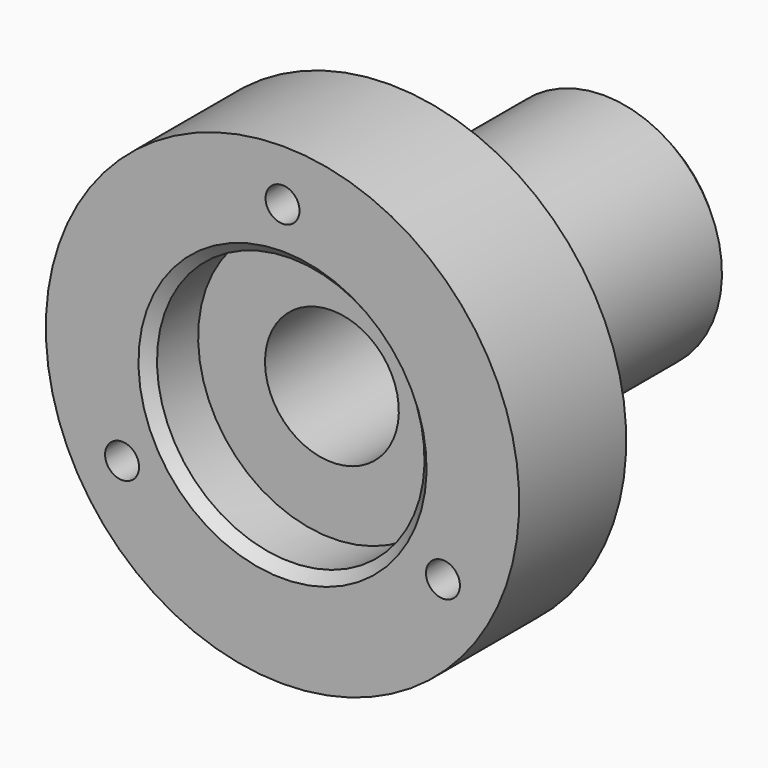
from build123d import *

# Parameters (mm, degrees)
F2_SIZE = 1
F4_D    = 3.3


with BuildPart() as f1:
    # F0 (on Right) → F1 (revolve)
    with BuildSketch(Plane.YZ):
        Polygon((-15.9130460173, 6.5), (18.0869539827, 6.5), (18.0869539827, 11.5), (-8.9130460173, 11.5), (-8.9130460173, 23), (-21.9130460173, 23), (-21.9130460173, 13), (-15.9130460173, 13), align=None)
    revolve(axis=Axis((0, -2.1911122165, 0), (0, -1, 0)))

    # F2
    f2_edges = [f1.edges().sort_by_distance(p)[0] for p in [
        (0, 18.086954, -11.5),
        (0, 18.086954, -6.5),
        (0, -21.913046, -13),
    ]]
    chamfer(f2_edges, length=F2_SIZE)

    # F4 (through all)
    with Locations(Plane.XZ.offset(21.9130460173)):
        with Locations((0, 18), (-15.5884572681, -9), (15.5884572681, -9)):
            Hole(F4_D / 2)


solid = f1.part
